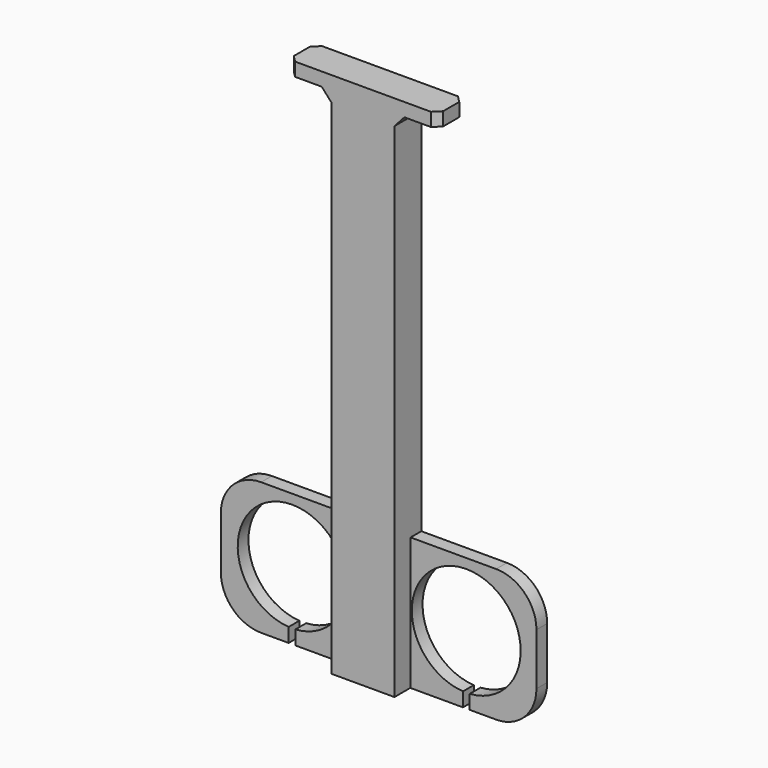
from build123d import *

# Parameters (mm, degrees)
F1_DEPTH = 2
F0_W     = 1.9
F0_H     = 55.0951848962
F0_W_2   = 3
F0_H_2   = 8.0191061349
F0_W_3   = 1.0669481622
F0_H_3   = 2
F0_H_4   = 17.6764619537
F0_H_5   = 2.0183531501
F2_DEPTH = 5
F3_SIZE  = 1


with BuildPart() as f1:
    # F0 (on Front) → F1 (new body)
    with BuildSketch(Plane.XZ):
        with BuildLine():
            Line((-5.2732866119, -11.4232450724), (-5.2732866119, 6.2532168813))
            Line((-5.2732866119, 6.2532168813), (-18.1692923009, 6.2532168813))
            ThreePointArc((-18.1692923009, 6.2532168813), (-22.4119329881, 4.4958575684), (-24.1692923009, 0.2532168813))
            Line((-24.1692923009, 0.2532168813), (-24.1692923009, -7.474217616))
            ThreePointArc((-24.1692923009, -7.474217616), (-22.4119329881, -11.7168583031), (-18.1692923009, -13.474217616))
            Line((-18.1692923009, -13.474217616), (-14.0744003764, -13.474217616))
            Line((-14.0744003764, -13.474217616), (-14.0744003764, -11.3696444416))
            ThreePointArc((-14.0744003764, -11.3696444416), (-13.5321325059, 4.8135476182), (-13.0744003764, -11.3722560686))
            Line((-13.0744003764, -11.3722560686), (-13.0744003764, -13.474217616))
            Line((-13.0744003764, -13.474217616), (11.8678271526, -13.474217616))
            Line((11.8678271526, -13.474217616), (11.8678271526, -11.3722560686))
            ThreePointArc((11.8678271526, -11.3722560686), (12.3255592821, 4.8135476182), (12.8678271526, -11.3696444416))
            Line((12.8678271526, -11.3696444416), (12.8678271526, -13.474217616))
            Line((12.8678271526, -13.474217616), (16.7931831032, -13.474217616))
            ThreePointArc((16.7931831032, -13.474217616), (21.0358237903, -11.7168583031), (22.7931831032, -7.474217616))
            Line((22.7931831032, -7.474217616), (22.7931831032, 0.2532168813))
            ThreePointArc((22.7931831032, 0.2532168813), (21.0358237903, 4.4958575684), (16.7931831032, 6.2532168813))
            Line((16.7931831032, 6.2532168813), (4.0667133881, 6.2532168813))
            Line((4.0667133881, 6.2532168813), (4.0667133881, -11.4232450724))
            Line((4.0667133881, -11.4232450724), (4.0667133881, -13.4415982225))
            Line((4.0667133881, -13.4415982225), (2.1667133881, -13.4415982225))
            Line((2.1667133881, -13.4415982225), (-3.3732866119, -13.4415982225))
            Line((-3.3732866119, -13.4415982225), (-5.2732866119, -13.4415982225))
            Line((-5.2732866119, -13.4415982225), (-5.2732866119, -11.4232450724))
        make_face()
    extrude(amount=F1_DEPTH)

    # F0 (on Front) → F2 (join)
    with BuildSketch(Plane.XZ):
        with Locations((-4.3232866119, 33.8008093294)):
            Rectangle(F0_W, F0_H)
        Polygon((-2.1032866119, 61.3484017775), (-3.3732866119, 61.3484017775), (-3.3732866119, 6.2532168813), (2.1667133881, 6.2532168813), (2.1667133881, 61.3484017775), (0.8967133881, 61.3484017775), (0.8967133881, 53.3292956426), (-2.1032866119, 53.3292956426), align=None)
        with Locations((3.1167133881, 33.8008093294)):
            Rectangle(F0_W, F0_H)
        with Locations((-0.6032866119, 57.3388487101)):
            Rectangle(F0_W_2, F0_H_2)
        Polygon((-6.7575482038, 62.9888176918), (-5.2732866119, 61.3484017775), (-3.3732866119, 61.3484017775), (-2.1032866119, 61.3484017775), (0.8967133881, 61.3484017775), (2.1667133881, 61.3484017775), (4.0667133881, 61.3484017775), (5.55097498, 62.9888176918), align=None)
        with Locations((-11.1823320082, 63.9888176918)):
            Rectangle(F0_W_3, F0_H_3)
        Polygon((9.4422847033, 64.9888176918), (9.4422847033, 62.9888176918), (10.5092328655, 62.9867687821), (10.5092328655, 64.9888176918), align=None)
        Polygon((-10.6488579271, 62.9888176918), (-6.7575482038, 62.9888176918), (5.55097498, 62.9888176918), (9.4422847033, 62.9888176918), (9.4422847033, 64.9888176918), (-10.6488579271, 64.9888176918), align=None)
        with Locations((-4.3232866119, -2.5850140955)):
            Rectangle(F0_W, F0_H_4)
        Polygon((2.1667133881, 6.2532168813), (-3.3732866119, 6.2532168813), (-3.3732866119, -11.4232450724), (-3.3732866119, -13.4415982225), (2.1667133881, -13.4415982225), (2.1667133881, -11.4232450724), align=None)
        with Locations((3.1167133881, -2.5850140955)):
            Rectangle(F0_W, F0_H_4)
        with Locations((-4.3232866119, -12.4324216474)):
            Rectangle(F0_W, F0_H_5)
        with Locations((3.1167133881, -12.4324216474)):
            Rectangle(F0_W, F0_H_5)
    extrude(amount=F2_DEPTH)

    # F3
    f3_edges = [f1.edges().sort_by_distance(p)[0] for p in [
        (10.509233, 0, 63.987793),
        (10.509233, -5, 63.987793),
        (-11.715806, -5, 63.988818),
        (-11.715806, 0, 63.988818),
    ]]
    chamfer(f3_edges, length=F3_SIZE)


solid = f1.part
